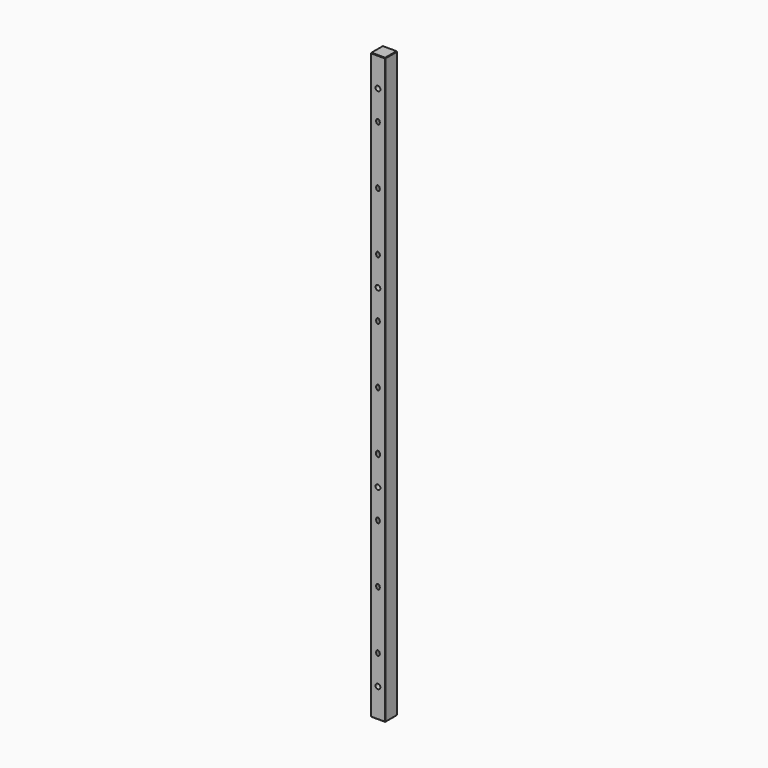
from build123d import *

# Parameters (mm, degrees)
F0_W            = 38.1
F0_H            = 1524
F1_DEPTH        = 38.1
F4_R            = 4.7625
F6_R            = 4.7625
F8_R            = 4.7625
F10_R           = 4.7625
F12_R           = 4.7625
F14_R           = 5.336808
F16_R           = 4.7625
F18_R           = 4.7625
F20_R           = 4.7625
F21_DEPTH       = 25.4
F22_SIZE        = 1.27
F23_D           = 6.35
F23_CBORE_D     = 12.7
F23_CBORE_DEPTH = 12.7


with BuildPart() as f1:
    # F0 (on Front) → F1 (new body)
    with BuildSketch(Plane.XZ):
        Rectangle(F0_W, F0_H)
    extrude(amount=F1_DEPTH)

    # F4 (on face) + F6 (on face) + F8 (on face) + F10 (on face) + F12 (on face) + F14 (on face) + F16 (on face) + F18 (on face) + F20 (on face) → F21 (cut, symmetric)
    with BuildSketch(Plane(origin=(0, -323.85, 323.85), x_dir=(1, 0, 0), z_dir=(0, -0.707107, 0.707107))):
        with Locations((0, 404.111525)):
            Circle(F4_R)
    with BuildSketch(Plane(origin=(0, -247.65, 247.65), x_dir=(1, 0, 0), z_dir=(0, -0.707107, 0.707107))):
        with Locations((0, 296.348452)):
            Circle(F6_R)
    with BuildSketch(Plane(origin=(0, -171.45, 171.45), x_dir=(1, 0, 0), z_dir=(0, -0.707107, 0.707107))):
        with Locations((0, 188.585379)):
            Circle(F8_R)
    with BuildSketch(Plane(origin=(0, -95.25, 95.25), x_dir=(1, 0, 0), z_dir=(0, -0.707107, 0.707107))):
        with Locations((0, 80.822305)):
            Circle(F10_R)
    with BuildSketch(Plane(origin=(0, -19.05, 19.05), x_dir=(1, 0, 0), z_dir=(0, -0.707107, 0.707107))):
        with Locations((0, -26.940768)):
            Circle(F12_R)
    with BuildSketch(Plane(origin=(0, 57.15, -57.15), x_dir=(1, 0, 0), z_dir=(0, -0.707107, 0.707107))):
        with Locations((0, -134.703842)):
            Circle(F14_R)
    with BuildSketch(Plane(origin=(0, 133.35, -133.35), x_dir=(1, 0, 0), z_dir=(0, -0.707107, 0.707107))):
        with Locations((0, -242.466915)):
            Circle(F16_R)
    with BuildSketch(Plane(origin=(0, 209.55, -209.55), x_dir=(1, 0, 0), z_dir=(0, -0.707107, 0.707107))):
        with Locations((0, -350.229989)):
            Circle(F18_R)
    with BuildSketch(Plane(origin=(0, 285.75, -285.75), x_dir=(1, 0, 0), z_dir=(0, -0.707107, 0.707107))):
        with Locations((0, -457.993062)):
            Circle(F20_R)
    extrude(amount=F21_DEPTH, both=True, mode=Mode.SUBTRACT)

    # F22
    f22_edges = [f1.edges().sort_by_distance(p)[0] for p in [
        (19.05, -19.05, 762),
        (0, -38.1, 762),
        (-19.05, -19.05, 762),
        (19.05, -38.1, 0),
        (-19.05, -38.1, 0),
        (0, -38.1, -762),
        (19.05, -19.05, -762),
        (-19.05, -19.05, -762),
    ]]
    chamfer(f22_edges, length=F22_SIZE)

    # F23 (through all)
    with Locations(Plane.XZ.offset(38.1)):
        with Locations((0, 685.8), (0, 228.6), (0, -228.6), (0, -685.8)):
            CounterBoreHole(F23_D / 2, F23_CBORE_D / 2, F23_CBORE_DEPTH)


solid = f1.part
